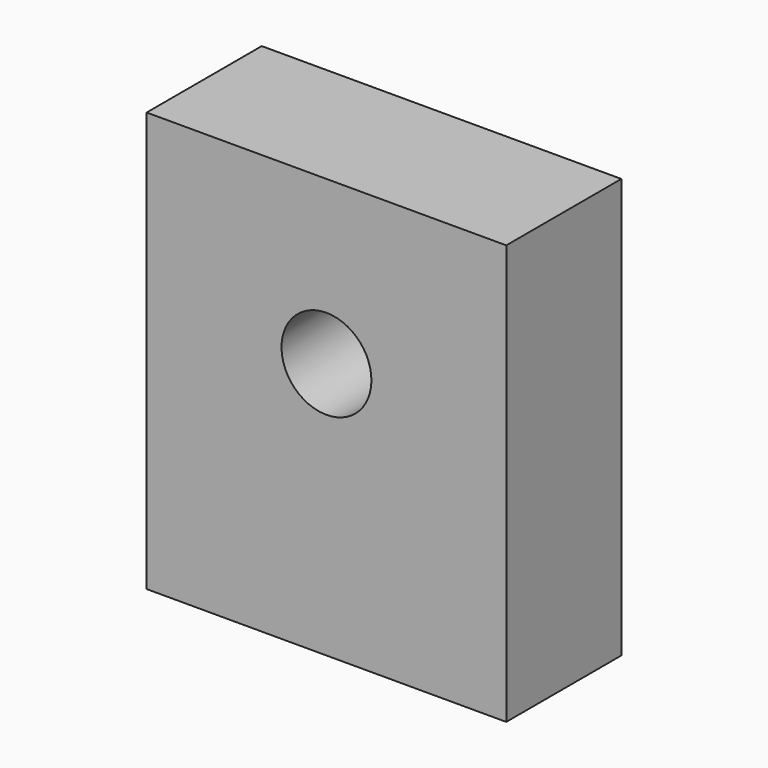
from build123d import *

# Parameters (mm, degrees)
F0_W     = 600
F0_H     = 700
F1_DEPTH = 240
F4_DEPTH = 240.001


with BuildPart() as f1:
    # F0 (on Front) → F1 (new body)
    with BuildSketch(Plane.XZ):
        Rectangle(F0_W, F0_H)
    extrude(amount=F1_DEPTH)

    # F3 (on face) → F4 (cut, through all)
    with BuildSketch(Plane.XZ.offset(240)):
        with BuildLine():
            ThreePointArc((0, 153.438717), (-53.033009, 25.405708), (75, 78.438717))
            ThreePointArc((75, 78.438717), (53.033009, 131.471726), (0, 153.438717))
        make_face()
    extrude(amount=-F4_DEPTH, mode=Mode.SUBTRACT)


solid = f1.part
